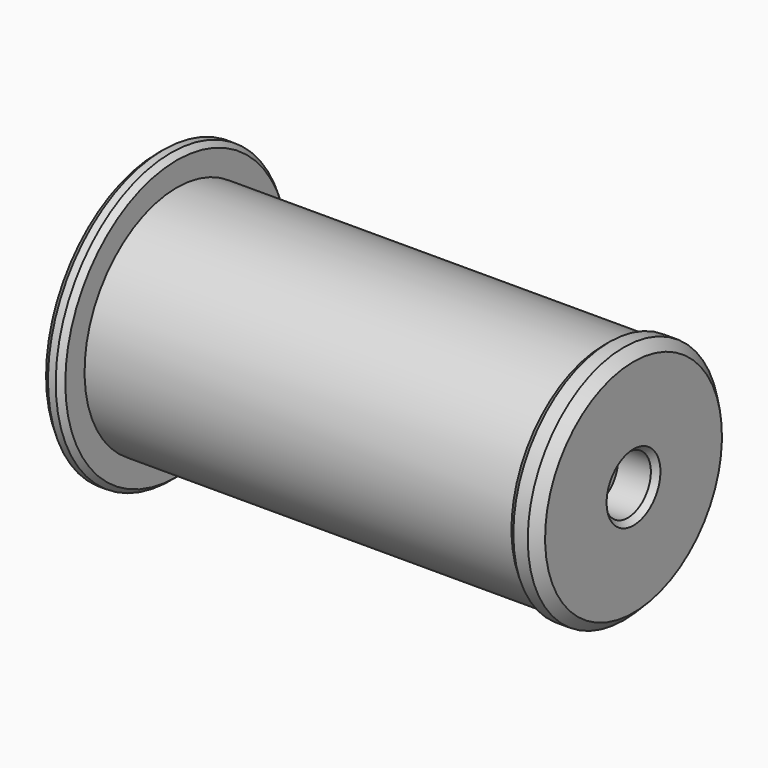
from build123d import *

# Parameters (mm, degrees)
F2_SIZE2 = 1.1917535926
F2_SIZE  = 1
F3_SIZE2 = 1.1917535926
F3_SIZE  = 1
F4_SIZE  = 2
F5_SIZE2 = 1.1917535926
F5_SIZE  = 1
F6_SIZE2 = 1.1917535926
F6_SIZE  = 1


with BuildPart() as f1:
    # F0 (on Front) → F1 (revolve)
    with BuildSketch(Plane.XZ):
        Polygon((0, 30), (0, 6), (8, 6), (8, 16), (79.0824640741, 16), (91, 6), (99, 6), (99, 25), (94, 25), (92.8082464074, 24), (4, 24), (4, 30), align=None)
    revolve(axis=Axis((29.4127222821, 0, 0), (1, 0, 0)))

    # F2
    f2_edges = [f1.edges().sort_by_distance(p)[0] for p in [
        (0, 0, -6),
    ]]
    f2_side = f1.faces().sort_by_distance((0, 0, -29.151472))[0]
    chamfer(f2_edges, length=F2_SIZE, length2=F2_SIZE2, reference=f2_side)

    # F3
    f3_edges = [f1.edges().sort_by_distance(p)[0] for p in [
        (99, 0, -6),
    ]]
    f3_side = f1.faces().sort_by_distance((99, 0, -6.707107))[0]
    chamfer(f3_edges, length=F3_SIZE, length2=F3_SIZE2, reference=f3_side)

    # F4
    f4_edges = [f1.edges().sort_by_distance(p)[0] for p in [
        (99, 0, -25),
    ]]
    chamfer(f4_edges, length=F4_SIZE)

    # F5
    f5_edges = [f1.edges().sort_by_distance(p)[0] for p in [
        (0, 0, -30),
    ]]
    f5_side = f1.faces().sort_by_distance((0, 0, -7.848528))[0]
    chamfer(f5_edges, length=F5_SIZE, length2=F5_SIZE2, reference=f5_side)

    # F6
    f6_edges = [f1.edges().sort_by_distance(p)[0] for p in [
        (4, 0, -30),
    ]]
    f6_side = f1.faces().sort_by_distance((4, 0, -24.848528))[0]
    chamfer(f6_edges, length=F6_SIZE, length2=F6_SIZE2, reference=f6_side)


solid = f1.part
